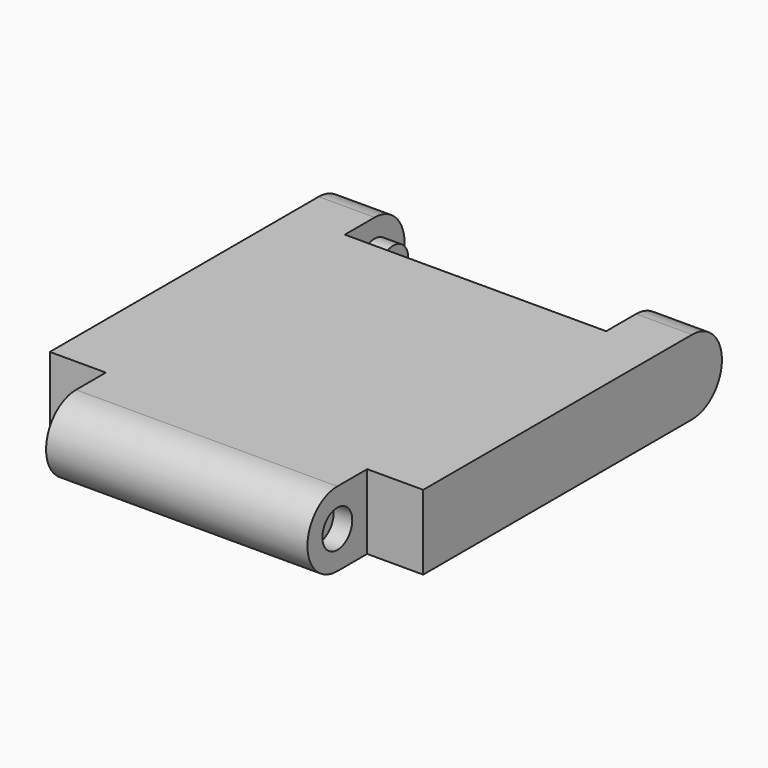
from build123d import *

# Parameters (mm, degrees)
F1_DEPTH  = 5
F2_W      = 7
F2_H      = 2.1077826433
F2_W_2    = 1.5
F2_H_2    = 2.502781529
F2_H_3    = 3.0992894471
F3_DEPTH  = 5
F4_R      = 0.5
F5_DEPTH  = 0.5
F6_R      = 0.5
F7_DEPTH  = 0.5
F8_R      = 0.5
F9_DEPTH  = 0.5
F10_R     = 0.5
F11_DEPTH = 0.5


with BuildPart() as f1:
    # F0 (on Right) → F1 (new body, symmetric)
    with BuildSketch(Plane.YZ):
        with BuildLine():
            ThreePointArc((5, -1), (6, 0), (5, 1))
            Line((5, 1), (-5, 1))
            ThreePointArc((-5, 1), (-6, 0), (-5, -1))
            Line((-5, -1), (5, -1))
        make_face()
    extrude(amount=F1_DEPTH, both=True)

    # F2 (on face) → F3 (cut)
    with BuildSketch(Plane.XY.offset(1)):
        with Locations((0, 5.0538913216)):
            Rectangle(F2_W, F2_H)
        with Locations((-4.25, -5.2513907645)):
            Rectangle(F2_W_2, F2_H_2)
        with Locations((4.25, -5.5496447235)):
            Rectangle(F2_W_2, F2_H_3)
    extrude(amount=-F3_DEPTH, mode=Mode.SUBTRACT)

    # F4 (on face) → F5 (cut)
    with BuildSketch(Plane(origin=(-3.5, 0, 0), x_dir=(0, -1, 0), z_dir=(-1, 0, 0))):
        with Locations((5, 0)):
            Circle(F4_R)
    extrude(amount=-F5_DEPTH, mode=Mode.SUBTRACT)

    # F6 (on face) → F7 (cut)
    with BuildSketch(Plane.YZ.offset(3.5)):
        with Locations((-5, 0)):
            Circle(F6_R)
    extrude(amount=-F7_DEPTH, mode=Mode.SUBTRACT)

    # F8 (on face) → F9 (join)
    with BuildSketch(Plane.YZ.offset(-3.5)):
        with Locations((5, 0)):
            Circle(F8_R)
    extrude(amount=F9_DEPTH)

    # F10 (on face) → F11 (join)
    with BuildSketch(Plane(origin=(3.5, 0, 0), x_dir=(0, -1, 0), z_dir=(-1, 0, 0))):
        with Locations((-5, 0)):
            Circle(F10_R)
    extrude(amount=F11_DEPTH)


solid = f1.part
